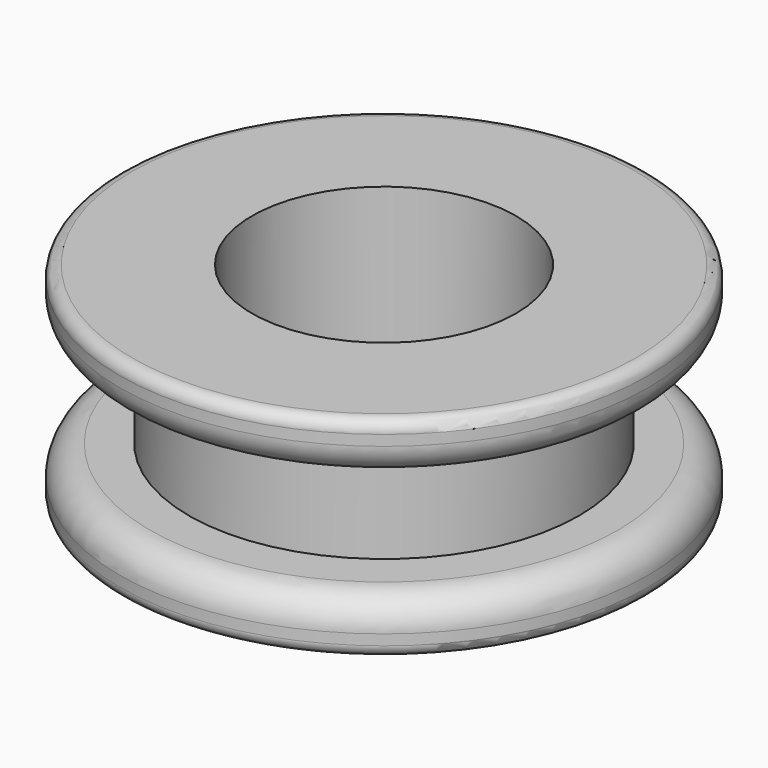
from build123d import *


with BuildPart() as f1:
    # F0 (on Front) → F1 (revolve)
    with BuildSketch(Plane.XZ):
        with BuildLine():
            ThreePointArc((4.4, 3.3), (4.341421, 3.441421), (4.2, 3.5))
            Line((4.2, 3.5), (2.2, 3.5))
            Line((2.2, 3.5), (2.2, 0))
            Line((2.2, 0), (4.2, 0))
            ThreePointArc((4.2, 0), (4.341421, 0.058579), (4.4, 0.2))
            Line((4.4, 0.2), (4.4, 0.375))
            ThreePointArc((4.4, 0.375), (4.253553, 0.728553), (3.9, 0.875))
            Line((3.9, 0.875), (3.25, 0.875))
            Line((3.25, 0.875), (3.25, 2.625))
            Line((3.25, 2.625), (3.9, 2.625))
            ThreePointArc((3.9, 2.625), (4.253553, 2.771447), (4.4, 3.125))
            Line((4.4, 3.125), (4.4, 3.3))
        make_face()
    revolve(axis=Axis((0, 0, 1.683479), (0, 0, 1)))


solid = f1.part
